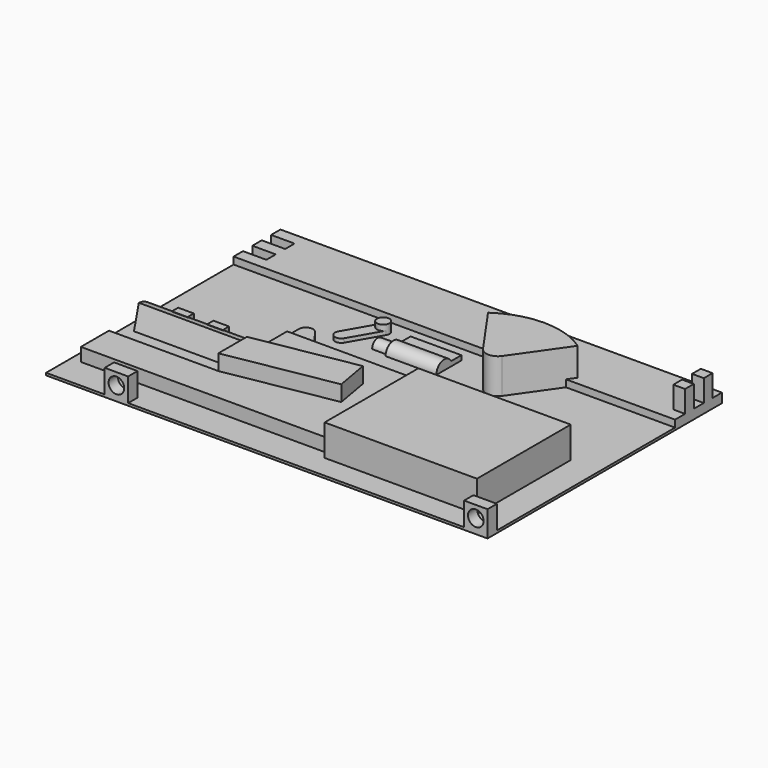
from build123d import *

# Parameters (mm, degrees)
F0_W      = 113
F0_H      = 75
F1_DEPTH  = 0.6
F2_W      = 113
F2_H      = 15
F3_DEPTH  = 1.8
F5_W      = 30
F5_H      = 8
F6_DEPTH  = 39
F8_DEPTH  = 3.4
F10_DEPTH = 4
F12_DEPTH = 2.4
F14_DEPTH = 28
F15_W     = 4
F15_H     = 2
F16_DEPTH = 5.4
F18_DEPTH = 9
F19_R     = 3
F22_DEPTH = 13
F24_DEPTH = 4
F25_R     = 1.6
F26_DEPTH = 2.4
F28_DEPTH = 1
F29_W     = 3
F29_H     = 2.8
F30_DEPTH = 5.6
F31_W     = 6
F31_H     = 3
F32_DEPTH = 3
F33_W     = 6
F33_H     = 3
F34_DEPTH = 6
F35_R     = 2
F36_DEPTH = 4


with BuildPart() as f1:
    # F0 (on Top) → F1 (new body)
    with BuildSketch(Plane.XY):
        with Locations((0, 37.5)):
            Rectangle(F0_W, F0_H)
    extrude(amount=F1_DEPTH)

    # F2 (on face) → F3 (join)
    with BuildSketch(Plane.XY.offset(0.6)):
        with Locations((0, 67.5)):
            Rectangle(F2_W, F2_H)
    extrude(amount=F3_DEPTH)

    # F5 (on offset) → F6 (join)
    with BuildSketch(Plane.YZ.offset(10)):
        with Locations((21, 4.6)):
            Rectangle(F5_W, F5_H)
    extrude(amount=F6_DEPTH)

    # F7 (on face) → F8 (join)
    with BuildSketch(Plane.XY.offset(0.6)):
        Polygon((-26, 17), (-54, 17), (-54, 8), (10, 8), (10, 39), (-26, 39), align=None)
    extrude(amount=F8_DEPTH)

    # F9 (on face) → F10 (join)
    with BuildSketch(Plane.XY.offset(4)):
        Polygon((-26, 26.13884), (-26, 17), (1.574617, 21.862149), (0.011783, 30.725419), align=None)
    extrude(amount=F10_DEPTH)

    # F11 (on face) → F12 (join)
    with BuildSketch(Plane.XY.offset(0.6)):
        with BuildLine():
            Line((-26, 39), (-19, 39))
            Line((-19, 39), (-22.779166, 43.858928))
            ThreePointArc((-22.779166, 43.858928), (-24.784166, 44.456406), (-26, 42.753835))
            Line((-26, 42.753835), (-26, 39))
        make_face()
    extrude(amount=F12_DEPTH)

    # F13 (on face) → F14 (join)
    with BuildSketch(Plane(origin=(-26, 0, 0), x_dir=(0, -1, 0), z_dir=(-1, 0, 0))):
        with BuildLine():
            ThreePointArc((-26.552914, 6.395555), (-30.374719, 4.530004), (-32, 0.6))
            Line((-32, 0.6), (-25, 0.6))
            Line((-25, 0.6), (-26.552914, 6.395555))
        make_face()
    extrude(amount=F14_DEPTH)

    # F15 (on face) → F16 (join)
    with BuildSketch(Plane.XY.offset(0.6)):
        with Locations((-45, 29.4)):
            Rectangle(F15_W, F15_H)
        with Locations((-36, 29.4)):
            Rectangle(F15_W, F15_H)
    extrude(amount=F16_DEPTH)

    # F17 (on face) → F18 (join)
    with BuildSketch(Plane.XY.offset(0.6)):
        with BuildLine():
            Line((18.5, 45.616959), (29.971529, 62))
            ThreePointArc((29.971529, 62), (18.5, 65.616959), (7.028471, 62))
            Line((7.028471, 62), (18.5, 45.616959))
        make_face()
    extrude(amount=F18_DEPTH)

    # F19
    f19_edges = [f1.edges().sort_by_distance(p)[0] for p in [
        (18.5, 45.616959, 5.1),
    ]]
    fillet(f19_edges, radius=F19_R)

    # F21 (on offset) → F22 (join)
    with BuildSketch(Plane.YZ.offset(5)):
        with BuildLine():
            Line((48.073068, 0), (52.926932, 0))
            ThreePointArc((52.926932, 0), (52.981666, 0.297784), (53, 0.6))
            ThreePointArc((53, 0.6), (52.922078, 1.219303), (52.693171, 1.8))
            ThreePointArc((52.693171, 1.8), (49.592442, 2.92945), (48.073068, 0))
        make_face()
        with BuildLine():
            ThreePointArc((52.693171, 1.8), (52.922078, 1.219303), (53, 0.6))
            Line((53, 0.6), (56, 0.6))
            Line((56, 0.6), (56, 1.8))
            Line((56, 1.8), (52.693171, 1.8))
        make_face()
    extrude(amount=-F22_DEPTH)

    # F23 (on face) → F24 (join)
    with BuildSketch(Plane(origin=(-8, 0, 0), x_dir=(0, -1, 0), z_dir=(-1, 0, 0))):
        with BuildLine():
            Line((-52.197056, 0), (-48.802944, 0))
            ThreePointArc((-48.802944, 0), (-50.5, 2.4), (-52.197056, 0))
        make_face()
    extrude(amount=F24_DEPTH)

    # F25 (on face) → F26 (join)
    with BuildSketch(Plane.XY.offset(0.6)):
        with Locations((-15, 56)):
            Circle(F25_R)
    extrude(amount=F26_DEPTH)

    # F27 (on face) → F28 (join)
    with BuildSketch(Plane.XY.offset(0.6)):
        with BuildLine():
            ThreePointArc((-13.612875, 55.202576), (-14.202576, 57.387125), (-16.387125, 56.797424))
            Line((-16.387125, 56.797424), (-20.872636, 48.994848))
            ThreePointArc((-20.872636, 48.994848), (-20.282935, 46.8103), (-18.098387, 47.4))
            Line((-18.098387, 47.4), (-13.612875, 55.202576))
        make_face()
    extrude(amount=F28_DEPTH)

    # F29 (on face) → F30 (join)
    with BuildSketch(Plane.XY.offset(2.4)):
        with Locations((55, 70.6)):
            Rectangle(F29_W, F29_H)
        with Locations((55, 64.6)):
            Rectangle(F29_W, F29_H)
    extrude(amount=F30_DEPTH)

    # F31 (on face) → F32 (cut)
    with BuildSketch(Plane.XY.offset(2.4)):
        with Locations((-53.5, 70.5)):
            Rectangle(F31_W, F31_H)
        with Locations((-53.5, 64.5)):
            Rectangle(F31_W, F31_H)
    extrude(amount=-F32_DEPTH, mode=Mode.SUBTRACT)

    # F33 (on face) → F34 (join)
    with BuildSketch(Plane.XY.offset(0.6)):
        with Locations((53.5, 1.5)):
            Rectangle(F33_W, F33_H)
        with Locations((-38.5, 1.5)):
            Rectangle(F33_W, F33_H)
    extrude(amount=F34_DEPTH)

    # F35 (on face) → F36 (cut)
    with BuildSketch(Plane.XZ):
        with Locations((53.5, 3.6)):
            Circle(F35_R)
        with Locations((-38.5, 3.6)):
            Circle(F35_R)
    extrude(amount=-F36_DEPTH, mode=Mode.SUBTRACT)


solid = f1.part
